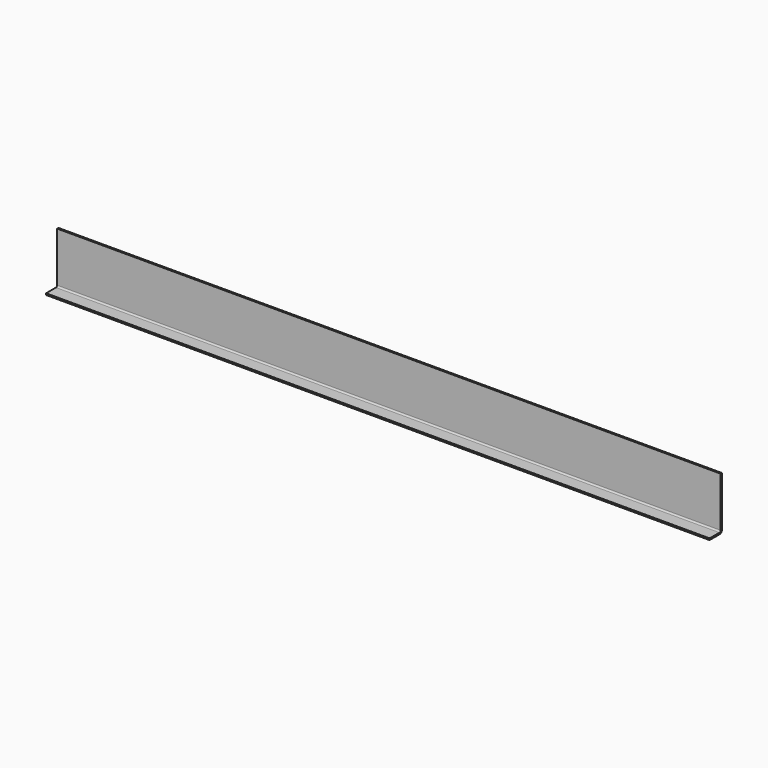
from build123d import *

# Parameters (mm, degrees)
F1_DEPTH = 717.55


with BuildPart() as f1:
    # F0 (on Right) → F1 (new body, symmetric)
    with BuildSketch(Plane.YZ):
        with BuildLine():
            Line((-6.5913, -53.7337), (-33.3375, -53.7337))
            Line((-33.3375, -53.7337), (-33.3375, -57.15))
            Line((-33.3375, -57.15), (-6.35, -57.15))
            ThreePointArc((-6.35, -57.15), (-1.859872, -55.290128), (0, -50.8))
            Line((0, -50.8), (0, 57.15))
            Line((0, 57.15), (-3.4163, 57.15))
            Line((-3.4163, 57.15), (-3.4163, -50.5587))
            ThreePointArc((-3.4163, -50.5587), (-4.346236, -52.803764), (-6.5913, -53.7337))
        make_face()
    extrude(amount=F1_DEPTH, both=True)


solid = f1.part
